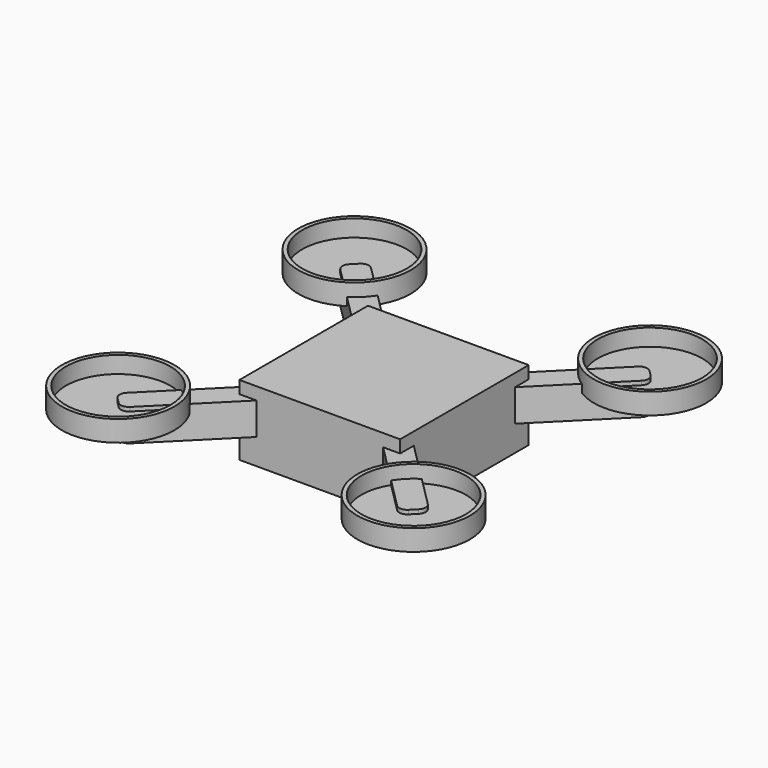
from build123d import *

# Parameters (mm, degrees)
F4_R          = 35
F5_DEPTH      = 13
F0_W          = 100
F0_H          = 100
F6_DEPTH      = 43.8
F8_DEPTH      = 5
F8_DEPTH_BACK = 15
F10_T         = -2.5
F10_2_T       = -2.5
F10_3_T       = -2.5
F10_4_T       = -2.5
F11_R         = 5


with BuildPart() as f5:
    # F4 (on offset) → F5 (new body)
    with BuildSketch(Plane.XY.offset(31)):
        with Locations((91.9238815543, 91.9238815543)):
            Circle(F4_R)
    extrude(amount=F5_DEPTH)

    # F10#3
    f10_3_openings = [f5.faces().sort_by_distance(p)[0] for p in [
        (91.923882, 91.923882, 44),
    ]]
    offset(amount=F10_3_T, openings=f10_3_openings)


with BuildPart() as f5b:
    # F4 (on offset) → F5, piece 2 (new body)
    with BuildSketch(Plane.XY.offset(31)):
        with Locations((-91.9238815543, 91.9238815543)):
            Circle(F4_R)
    extrude(amount=F5_DEPTH)

    # F10#4
    f10_4_openings = [f5b.faces().sort_by_distance(p)[0] for p in [
        (-91.923882, 91.923882, 44),
    ]]
    offset(amount=F10_4_T, openings=f10_4_openings)


with BuildPart() as f5c:
    # F4 (on offset) → F5, piece 3 (new body)
    with BuildSketch(Plane.XY.offset(31)):
        with Locations((-91.9238815543, -91.9238815543)):
            Circle(F4_R)
    extrude(amount=F5_DEPTH)

    # F10#2
    f10_2_openings = [f5c.faces().sort_by_distance(p)[0] for p in [
        (-91.923882, -91.923882, 44),
    ]]
    offset(amount=F10_2_T, openings=f10_2_openings)


with BuildPart() as f5d:
    # F4 (on offset) → F5, piece 4 (new body)
    with BuildSketch(Plane.XY.offset(31)):
        with Locations((91.9238815543, -91.9238815543)):
            Circle(F4_R)
    extrude(amount=F5_DEPTH)

    # F10
    f10_openings = [f5d.faces().sort_by_distance(p)[0] for p in [
        (91.923882, -91.923882, 44),
    ]]
    offset(amount=F10_T, openings=f10_openings)


with BuildPart() as f6:
    # F0 (on Top) → F6 (new body)
    with BuildSketch(Plane.XY):
        Rectangle(F0_W, F0_H)
    extrude(amount=F6_DEPTH)


with BuildPart() as f8:
    # F7 (on offset) → F8 (new body, two sides)
    with BuildSketch(Plane.XY.offset(31)) as f8_sk:
        Polygon((10.6066017178, 0), (97.2271824132, 86.6205806954), (86.6205806954, 97.2271824132), (0, 10.6066017178), (-86.6205806954, 97.2271824132), (-97.2271824132, 86.6205806954), (-10.6066017178, 0), (-97.2271824132, -86.6205806954), (-86.6205806954, -97.2271824132), (0, -10.6066017178), (86.6205806954, -97.2271824132), (97.2271824132, -86.6205806954), align=None)
    extrude(amount=F8_DEPTH)
    extrude(f8_sk.sketch, amount=-F8_DEPTH_BACK)

    # F11
    f11_edges = [f8.edges().sort_by_distance(p)[0] for p in [
        (-97.227182, -86.620581, 26),
        (-86.620581, -97.227182, 26),
        (97.227182, -86.620581, 26),
        (86.620581, -97.227182, 26),
        (-86.620581, 97.227182, 26),
        (-97.227182, 86.620581, 26),
        (97.227182, 86.620581, 26),
        (86.620581, 97.227182, 26),
    ]]
    fillet(f11_edges, radius=F11_R)


solid = Compound([f5.part, f5b.part, f5c.part, f5d.part, f6.part, f8.part])
